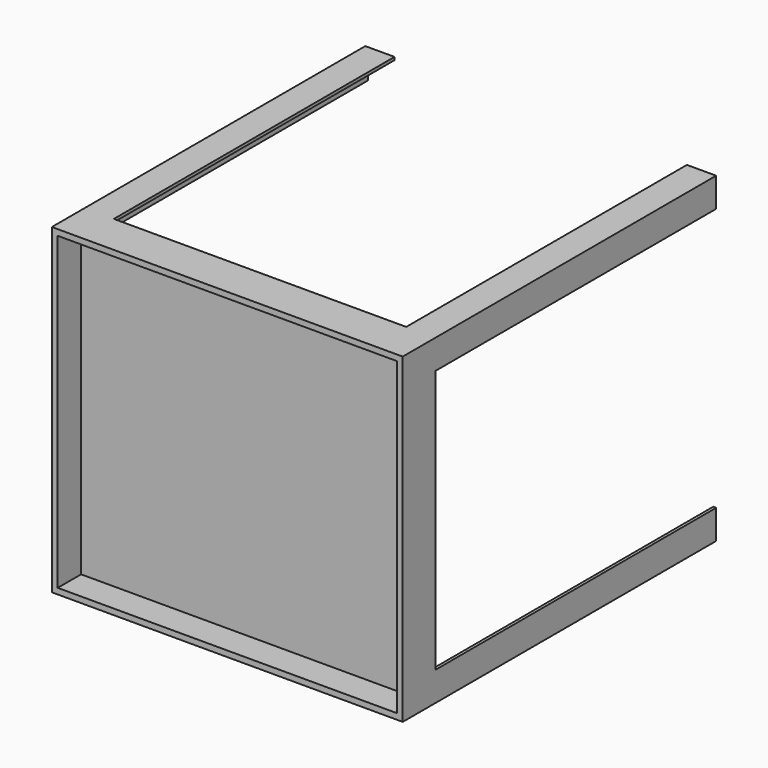
from build123d import *

# Parameters (mm, degrees)
F0_W     = 600
F0_H     = 550
F1_DEPTH = 35
F3_DEPTH = 600
F4_W     = 580
F4_H     = 530
F5_DEPTH = 50


with BuildPart() as f1:
    # F0 (on Front) → F1 (new body, symmetric)
    with BuildSketch(Plane.XZ):
        Rectangle(F0_W, F0_H)
    extrude(amount=F1_DEPTH, both=True)

    # F2 (on face) → F3 (join)
    with BuildSketch(Plane(origin=(0, 35, 0), x_dir=(-1, 0, 0), z_dir=(0, 1, 0))):
        Polygon((250, -275), (300, -275), (300, -225), (295, -225), (295, -270), (250, -270), align=None)
        Polygon((-300, -275), (-250, -275), (-250, -270), (-295, -270), (-295, -225), (-300, -225), align=None)
        Polygon((-250, 270), (-250, 275), (-300, 275), (-300, 225), (-295, 225), (-295, 270), align=None)
        Polygon((295, 225), (300, 225), (300, 275), (250, 275), (250, 270), (295, 270), align=None)
    extrude(amount=F3_DEPTH)

    # F4 (on face) → F5 (cut)
    with BuildSketch(Plane.XZ.offset(35)):
        Rectangle(F4_W, F4_H)
    extrude(amount=-F5_DEPTH, mode=Mode.SUBTRACT)


solid = f1.part
